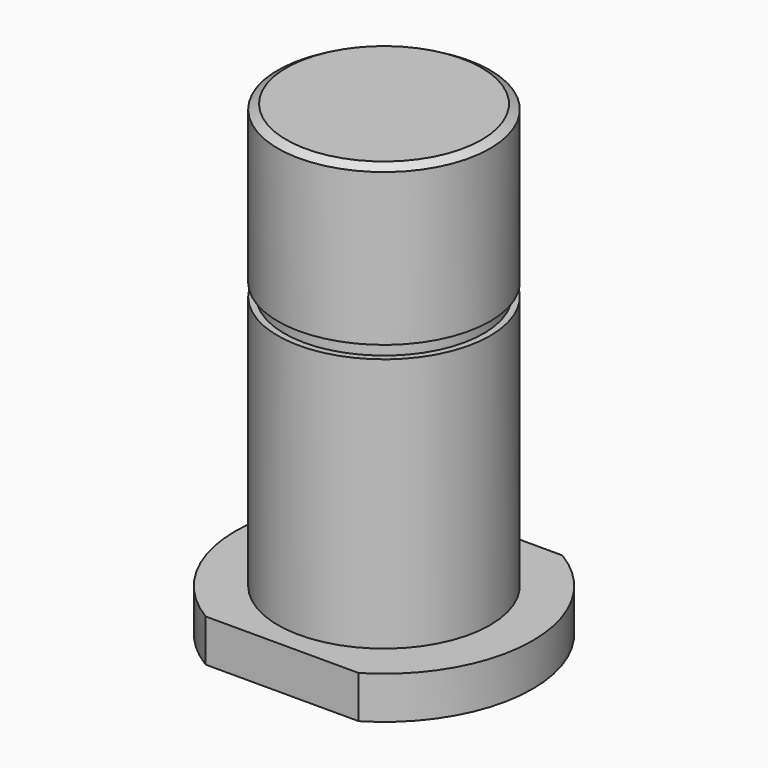
from build123d import *

# Parameters (mm, degrees)
F0_R     = 17.5
F1_DEPTH = 5
F2_R     = 12.5
F3_DEPTH = 50
F4_W     = 55
F4_H     = 40
F4_W_2   = 45
F4_H_2   = 30
F5_DEPTH = 25
F6_W     = 3.4094286376
F6_H     = 1.5
F8_SIZE2 = 0.5773502692
F8_SIZE  = 1


with BuildPart() as f1:
    # F0 (on Top) → F1 (new body)
    with BuildSketch(Plane.XY):
        Circle(F0_R)
    extrude(amount=F1_DEPTH)

    # F2 (on face) → F3 (join)
    with BuildSketch(Plane.XY.offset(5)):
        Circle(F2_R)
    extrude(amount=F3_DEPTH)

    # F4 (on face) → F5 (cut)
    with BuildSketch(Plane(origin=(0, 0, 0), x_dir=(1, 0, 0), z_dir=(0, 0, -1))):
        Rectangle(F4_W, F4_H)
        Rectangle(F4_W_2, F4_H_2, mode=Mode.SUBTRACT)
    extrude(amount=-F5_DEPTH, mode=Mode.SUBTRACT)

    # F6 (on Right) → F7 (revolve, cut)
    with BuildSketch(Plane.YZ):
        with Locations((-13.4547143188, 35.75)):
            Rectangle(F6_W, F6_H)
    revolve(axis=Axis((0, 0, 30.1519706845), (0, 0, 1)), mode=Mode.SUBTRACT)

    # F8
    f8_edges = [f1.edges().sort_by_distance(p)[0] for p in [
        (-12.5, 0, 55),
    ]]
    f8_side = f1.faces().sort_by_distance((0, 0, 55))[0]
    chamfer(f8_edges, length=F8_SIZE, length2=F8_SIZE2, reference=f8_side)


solid = f1.part
